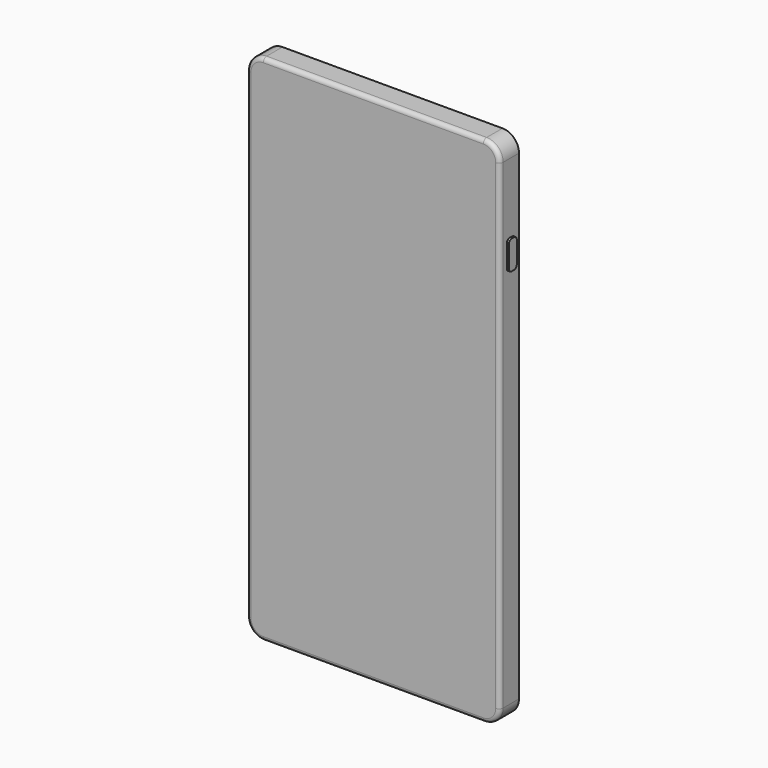
from build123d import *

# Parameters (mm, degrees)
F1_DEPTH = 7.366
F2_R     = 1.27
F4_DEPTH = 0.635
F5_W     = 3.048
F5_H     = 8.89
F6_DEPTH = 0.635


with BuildPart() as f1:
    # F0 (on Front) → F1 (new body)
    with BuildSketch(Plane.XZ):
        with BuildLine():
            Line((0, 153.162), (0, 5.08))
            ThreePointArc((0, 5.08), (1.487898, 1.487898), (5.08, 0))
            Line((5.08, 0), (72.898, 0))
            ThreePointArc((72.898, 0), (76.490102, 1.487898), (77.978, 5.08))
            Line((77.978, 5.08), (77.978, 153.162))
            ThreePointArc((77.978, 153.162), (76.490102, 156.754102), (72.898, 158.242))
            Line((72.898, 158.242), (5.08, 158.242))
            ThreePointArc((5.08, 158.242), (1.487898, 156.754102), (0, 153.162))
        make_face()
    extrude(amount=F1_DEPTH)

    # F2
    f2_edges = [f1.edges().sort_by_distance(p)[0] for p in [
        (38.989, -7.366, 0),
    ]]
    fillet(f2_edges, radius=F2_R)

    # F3 (on face) → F4 (join)
    with BuildSketch(Plane.YZ.offset(77.978)):
        with BuildLine():
            Line((-2.658174, 131.647782), (-3.674174, 131.647782))
            ThreePointArc((-3.674174, 131.647782), (-4.392594, 131.350203), (-4.690174, 130.631782))
            Line((-4.690174, 130.631782), (-4.690174, 123.773782))
            ThreePointArc((-4.690174, 123.773782), (-4.392594, 123.055362), (-3.674174, 122.757782))
            Line((-3.674174, 122.757782), (-2.658174, 122.757782))
            ThreePointArc((-2.658174, 122.757782), (-1.939753, 123.055362), (-1.642174, 123.773782))
            Line((-1.642174, 123.773782), (-1.642174, 130.631782))
            ThreePointArc((-1.642174, 130.631782), (-1.939753, 131.350203), (-2.658174, 131.647782))
        make_face()
    extrude(amount=F4_DEPTH)

    # F5 (on face) → F6 (join)
    with BuildSketch(Plane(origin=(0, 0, 0), x_dir=(0, -1, 0), z_dir=(-1, 0, 0))):
        with Locations((3.230303, 131.321728)):
            Rectangle(F5_W, F5_H)
        with Locations((3.230303, 118.621728)):
            Rectangle(F5_W, F5_H)
    extrude(amount=F6_DEPTH)


solid = f1.part
